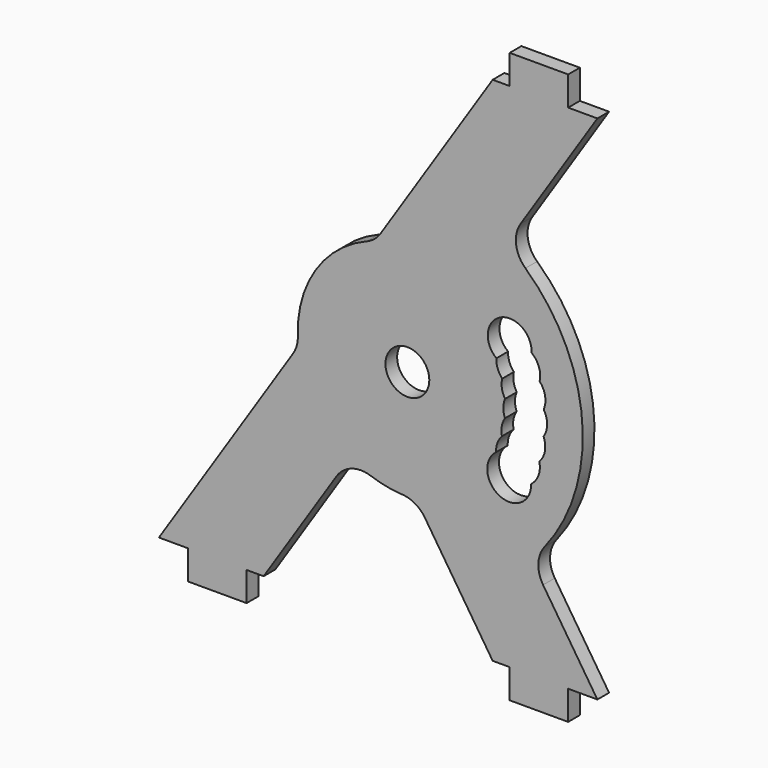
from build123d import *

# Parameters (mm, degrees)
F0_R     = 1.5
F1_DEPTH = 1
F2_R     = 2


with BuildPart() as f1:
    # F0 (on Front) → F1 (new body)
    with BuildSketch(Plane.XZ):
        with BuildLine():
            Line((9, 17.5), (7.835852, 17.5))
            Line((7.835852, 17.5), (-0.211063, 5.166673))
            ThreePointArc((-0.211063, 5.166673), (-4.281277, 2.098238), (-5.450163, -2.863178))
            Line((-5.450163, -2.863178), (-15, -17.5))
            Line((-15, -17.5), (-13, -17.5))
            Line((-13, -17.5), (-13, -19.5))
            Line((-13, -19.5), (-9, -19.5))
            Line((-9, -19.5), (-9, -17.5))
            Line((-9, -17.5), (-7.835852, -17.5))
            Line((-7.835852, -17.5), (-1.901865, -8.405111))
            ThreePointArc((-1.901865, -8.405111), (0.264667, -9.29648), (2.600518, -9.47592))
            Line((2.600518, -9.47592), (7.835852, -17.5))
            Line((7.835852, -17.5), (9, -17.5))
            Line((9, -17.5), (9, -19.5))
            Line((9, -19.5), (13, -19.5))
            Line((13, -19.5), (13, -17.5))
            Line((13, -17.5), (15, -17.5))
            Line((15, -17.5), (10.447663, -10.522734))
            ThreePointArc((10.447663, -10.522734), (13.94951, -0.900356), (8.750363, 7.921321))
            Line((8.750363, 7.921321), (15, 17.5))
            Line((15, 17.5), (13, 17.5))
            Line((13, 17.5), (13, 19.5))
            Line((13, 19.5), (9, 19.5))
            Line((9, 19.5), (9, 17.5))
        make_face()
        with Locations((2, -2)):
            Circle(F0_R, mode=Mode.SUBTRACT)
        with BuildLine():
            ThreePointArc((8.090569, 0.807131), (8.372132, 3.362271), (10.497678, 1.916563))
            ThreePointArc((10.497678, 1.916563), (11.000056, 1.230443), (11.048683, 0.381455))
            ThreePointArc((11.048683, 0.381455), (11.424286, -0.381478), (11.324748, -1.226012))
            ThreePointArc((11.324748, -1.226012), (11.562163, -2.042577), (11.317486, -2.856996))
            ThreePointArc((11.317486, -2.856996), (11.409499, -3.702383), (11.027117, -4.461941))
            ThreePointArc((11.027117, -4.461941), (10.970932, -5.310462), (10.462463, -5.992081))
            ThreePointArc((10.462463, -5.992081), (8.324127, -7.418803), (8.06533, -4.861258))
            ThreePointArc((8.06533, -4.861258), (8.15645, -4.271859), (8.470036, -3.764555))
            ThreePointArc((8.470036, -3.764555), (8.457424, -3.168288), (8.678153, -2.614238))
            ThreePointArc((8.678153, -2.614238), (8.562193, -2.029219), (8.683359, -1.445257))
            ThreePointArc((8.683359, -1.445257), (8.467572, -0.889263), (8.485493, -0.293132))
            ThreePointArc((8.485493, -0.293132), (8.176438, 0.216945), (8.090569, 0.807131))
        make_face(mode=Mode.SUBTRACT)
    extrude(amount=F1_DEPTH)

    # F2
    f2_edges = [f1.edges().sort_by_distance(p)[0] for p in [
        (-1.901865, -0.5, -8.405111),
        (2.600518, -0.5, -9.47592),
        (10.447663, -0.5, -10.522734),
        (8.750363, -0.5, 7.921321),
        (-0.211063, -0.5, 5.166673),
        (-5.450163, -0.5, -2.863178),
    ]]
    fillet(f2_edges, radius=F2_R)


solid = f1.part
